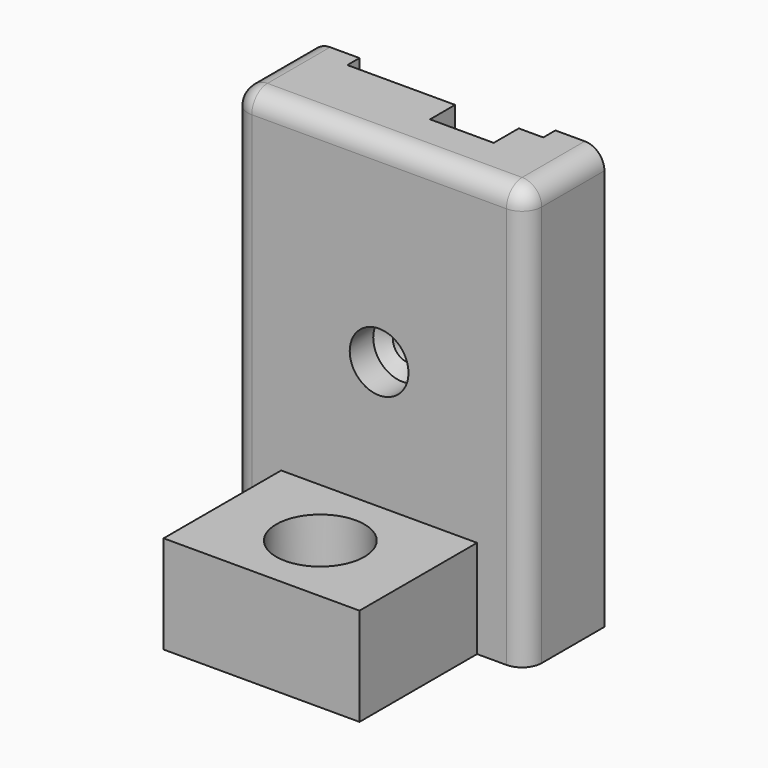
from build123d import *

# Parameters (mm, degrees)
F0_W      = 30
F0_H      = 43
F1_DEPTH  = 10
F2_W      = 20
F2_H      = 10
F3_DEPTH  = 15
F5_D      = 5.5
F7_D      = 9
F7_DEPTH  = 5
F7_TIP    = 2.7038727856
F8_W      = 20
F8_H      = 43
F9_DEPTH  = 1.55
F11_D     = 3.3
F13_D     = 6
F13_DEPTH = 3
F13_TIP   = 1.8025818571
F14_W     = 6.5
F14_H     = 10
F15_DEPTH = 3.2
F17_D     = 11
F17_DEPTH = 3.5
F17_TIP   = 3.3047334047
F18_R     = 2


with BuildPart() as f1:
    # F0 (on Front) → F1 (new body)
    with BuildSketch(Plane.XZ):
        Rectangle(F0_W, F0_H)
    extrude(amount=F1_DEPTH)

    # F2 (on face) → F3 (join)
    with BuildSketch(Plane.XZ.offset(10)):
        with Locations((0, -16.5)):
            Rectangle(F2_W, F2_H)
    extrude(amount=F3_DEPTH)

    # F5 (through all)
    with Locations(Plane.XY.offset(-11.5)):
        with Locations((0, -17.5)):
            Hole(F5_D / 2)

    # F7
    with Locations(Plane.XY.offset(-11.5)):
        with Locations((0, -17.5)):
            Hole(F7_D / 2, depth=F7_DEPTH)
            with Locations((0, 0, -(F7_DEPTH + F7_TIP / 2))):  # 118° drill point
                Cone(0, F7_D / 2, F7_TIP, mode=Mode.SUBTRACT)

    # F8 (on face) → F9 (cut)
    with BuildSketch(Plane(origin=(0, 0, 0), x_dir=(-1, 0, 0), z_dir=(0, 1, 0))):
        Rectangle(F8_W, F8_H)
    extrude(amount=-F9_DEPTH, mode=Mode.SUBTRACT)

    # F11 (through all)
    with Locations(Plane(origin=(0, -1.55, 0), x_dir=(-1, 0, 0), z_dir=(0, 1, 0))):
        with Locations((0, 1.5)):
            Hole(F11_D / 2)

    # F13
    with Locations(Plane.XZ.offset(10)):
        with Locations((0, 1.5)):
            Hole(F13_D / 2, depth=F13_DEPTH)
            with Locations((0, 0, -(F13_DEPTH + F13_TIP / 2))):  # 118° drill point
                Cone(0, F13_D / 2, F13_TIP, mode=Mode.SUBTRACT)

    # F14 (on face) → F15 (cut)
    with BuildSketch(Plane(origin=(0, -1.55, 0), x_dir=(-1, 0, 0), z_dir=(0, 1, 0))):
        with Locations((-4.25, 16.5)):
            Rectangle(F14_W, F14_H)
        with Locations((-4.25, -16.5)):
            Rectangle(F14_W, F14_H)
    extrude(amount=-F15_DEPTH, mode=Mode.SUBTRACT)

    # F17
    with Locations(Plane(origin=(0, -1.55, 0), x_dir=(-1, 0, 0), z_dir=(0, 1, 0))):
        with Locations((-4.25, -8.5), (-4.25, 11.5)):
            Hole(F17_D / 2, depth=F17_DEPTH)
            with Locations((0, 0, -(F17_DEPTH + F17_TIP / 2))):  # 118° drill point
                Cone(0, F17_D / 2, F17_TIP, mode=Mode.SUBTRACT)

    # F18
    f18_edges = [f1.edges().sort_by_distance(p)[0] for p in [
        (-15, -5, 21.5),
        (0, -10, 21.5),
        (-15, -10, 0),
        (15, -5, 21.5),
        (15, -10, 0),
    ]]
    fillet(f18_edges, radius=F18_R)


solid = f1.part
